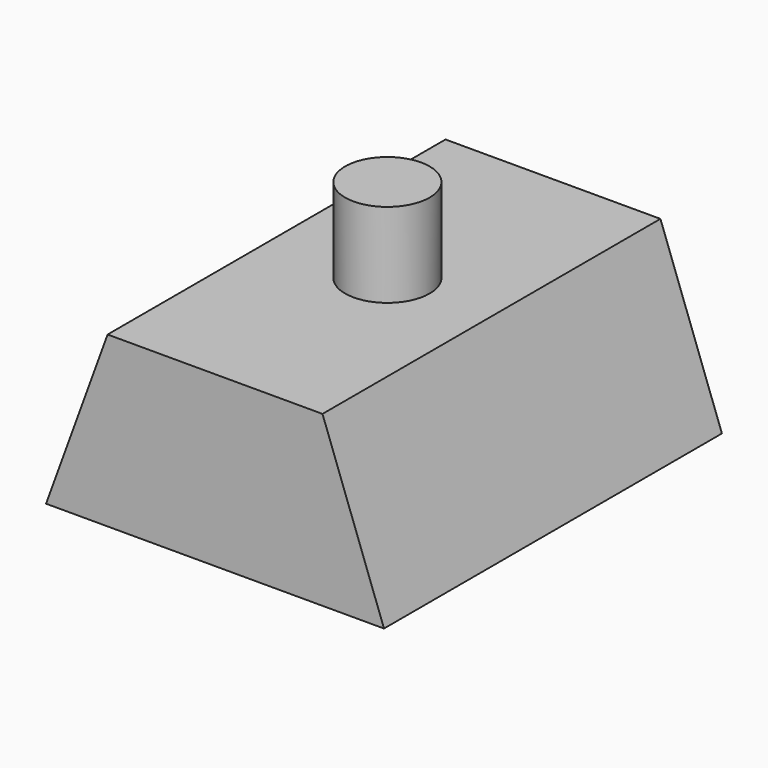
from build123d import *

# Parameters (mm, degrees)
F1_DEPTH = 25
F2_R     = 2.5
F3_DEPTH = 15


with BuildPart() as f1:
    # F0 (on Front) → F1 (new body)
    with BuildSketch(Plane.XZ):
        Polygon((3.64, 10), (0, 0), (20, 0), (16.36, 10), align=None)
    extrude(amount=F1_DEPTH)

    # F2 (on Top) → F3 (join)
    with BuildSketch(Plane.XY):
        with Locations((10.2, -12.5)):
            Circle(F2_R)
    extrude(amount=F3_DEPTH)


solid = f1.part
